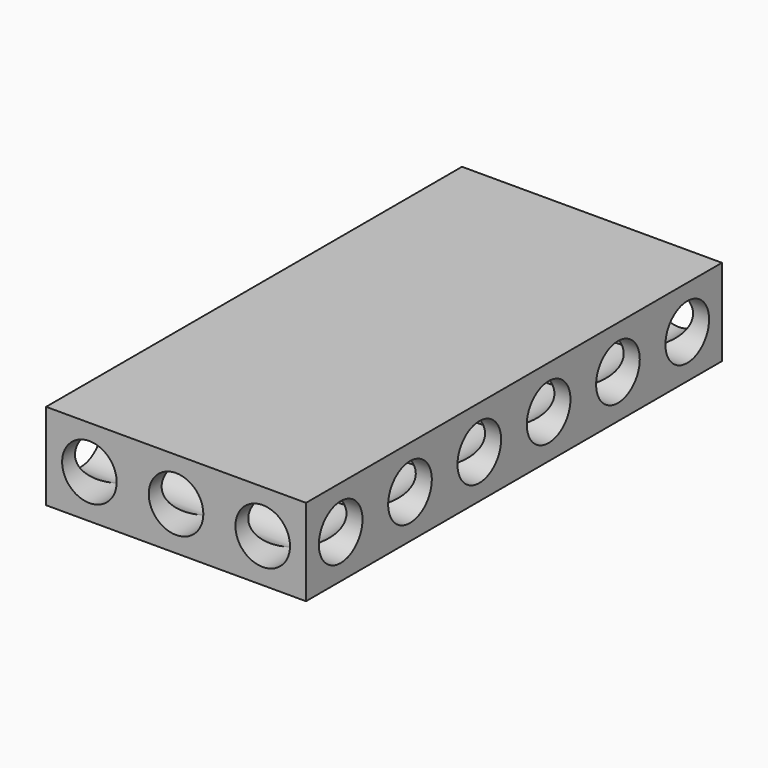
from build123d import *

# Parameters (mm, degrees)
F0_W     = 38.1
F0_H     = 76.2
F1_DEPTH = 12.7
F2_R     = 4
F3_DEPTH = 38.101
F4_R     = 4
F5_DEPTH = 76.201


with BuildPart() as f1:
    # F0 (on Top) → F1 (new body)
    with BuildSketch(Plane.XY):
        with Locations((-16.005945, -2.513404)):
            Rectangle(F0_W, F0_H)
    extrude(amount=F1_DEPTH)

    # F2 (on face) → F3 (cut, through all)
    with BuildSketch(Plane.YZ.offset(3.044055)):
        with Locations((-34.263404, 6.35)):
            Circle(F2_R)
        with Locations((-21.563404, 6.35)):
            Circle(F2_R)
        with Locations((-8.863404, 6.35)):
            Circle(F2_R)
        with Locations((3.836596, 6.35)):
            Circle(F2_R)
        with Locations((16.536596, 6.35)):
            Circle(F2_R)
        with Locations((29.236596, 6.35)):
            Circle(F2_R)
    extrude(amount=-F3_DEPTH, mode=Mode.SUBTRACT)

    # F4 (on face) → F5 (cut, through all)
    with BuildSketch(Plane.XZ.offset(40.613404)):
        with Locations((-28.705945, 6.35)):
            Circle(F4_R)
        with Locations((-16.005945, 6.35)):
            Circle(F4_R)
        with Locations((-3.305945, 6.35)):
            Circle(F4_R)
    extrude(amount=-F5_DEPTH, mode=Mode.SUBTRACT)


solid = f1.part
